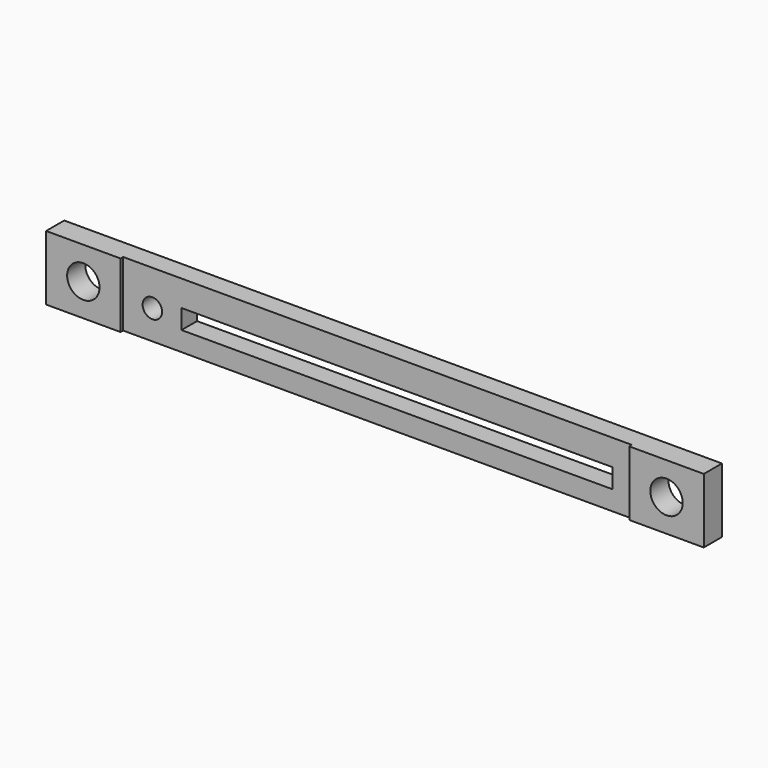
from build123d import *

# Parameters (mm, degrees)
F0_W     = 101.5
F0_H     = 10
F0_R     = 1.5
F0_W_2   = 66.5
F0_H_2   = 3
F0_R_2   = 2.5
F1_DEPTH = 3.5
F2_W     = 78.5
F2_H     = 10
F3_DEPTH = 0.5


with BuildPart() as f1:
    # F0 (on Front) → F1 (new body)
    with BuildSketch(Plane.XZ):
        Rectangle(F0_W, F0_H)
        with Locations((-34.75, -0.5)):
            Circle(F0_R, mode=Mode.SUBTRACT)
        with Locations((3, -0.5)):
            Rectangle(F0_W_2, F0_H_2, mode=Mode.SUBTRACT)
        with Locations((-45, 0)):
            Circle(F0_R_2, mode=Mode.SUBTRACT)
        with Locations((45, 0)):
            Circle(F0_R_2, mode=Mode.SUBTRACT)
    extrude(amount=F1_DEPTH)

    # F2 (on face) → F3 (cut)
    with BuildSketch(Plane.XZ.offset(3.5)):
        Rectangle(F2_W, F2_H)
    extrude(amount=-F3_DEPTH, mode=Mode.SUBTRACT)


solid = f1.part
